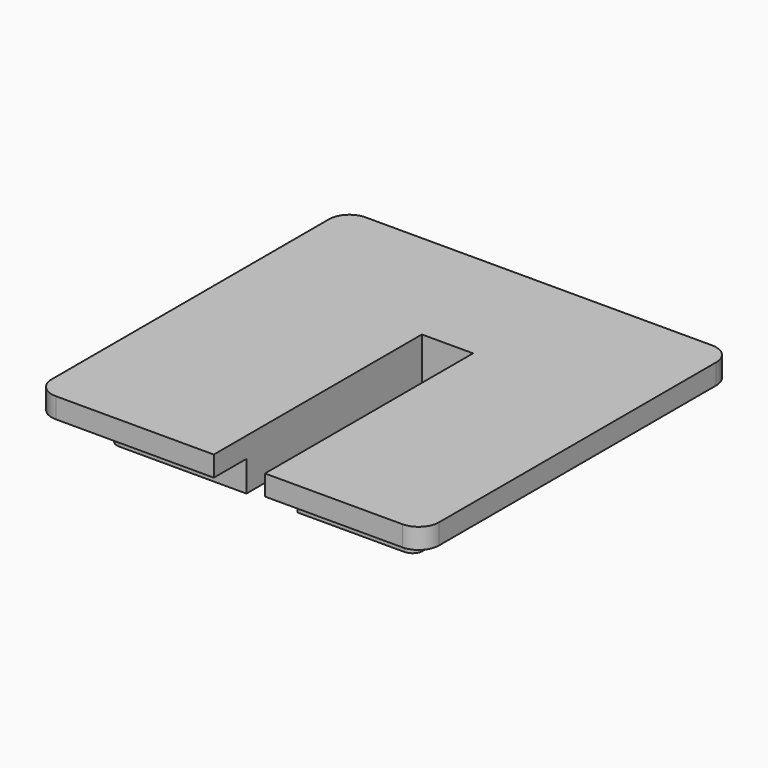
from build123d import *

# Parameters (mm, degrees)
F1_DEPTH = 2
F3_DEPTH = 3


with BuildPart() as f1:
    # F0 (on Top) → F1 (new body)
    with BuildSketch(Plane.XY):
        with BuildLine():
            Line((17, 19), (-17, 19))
            ThreePointArc((-17, 19), (-18.414214, 18.414214), (-19, 17))
            Line((-19, 17), (-19, -17))
            ThreePointArc((-19, -17), (-18.414214, -18.414214), (-17, -19))
            Line((-17, -19), (-1.5, -19))
            Line((-1.5, -19), (-1.5, 6.522064))
            Line((-1.5, 6.522064), (1.5, 6.522064))
            Line((1.5, 6.522064), (1.519474, 6.522064))
            Line((1.519474, 6.522064), (3.519474, 6.522064))
            Line((3.519474, 6.522064), (3.519474, -19))
            Line((3.519474, -19), (17, -19))
            ThreePointArc((17, -19), (18.414214, -18.414214), (19, -17))
            Line((19, -17), (19, 17))
            ThreePointArc((19, 17), (18.414214, 18.414214), (17, 19))
        make_face()
    extrude(amount=F1_DEPTH)

    # F2 (on face) → F3 (join)
    with BuildSketch(Plane(origin=(0, 0, 0), x_dir=(1, 0, 0), z_dir=(0, 0, -1))):
        with BuildLine():
            Line((-1.5, 15), (-14, 15))
            ThreePointArc((-14, 15), (-14.707107, 14.707107), (-15, 14))
            Line((-15, 14), (-15, -14))
            ThreePointArc((-15, -14), (-14.707107, -14.707107), (-14, -15))
            Line((-14, -15), (14, -15))
            ThreePointArc((14, -15), (14.707107, -14.707107), (15, -14))
            Line((15, -14), (15, 14))
            ThreePointArc((15, 14), (14.707107, 14.707107), (14, 15))
            Line((14, 15), (3.519474, 15))
            Line((3.519474, 15), (3.519474, -6.522064))
            Line((3.519474, -6.522064), (-1.5, -6.522064))
            Line((-1.5, -6.522064), (-1.5, 15))
        make_face()
    extrude(amount=F3_DEPTH)


solid = f1.part
